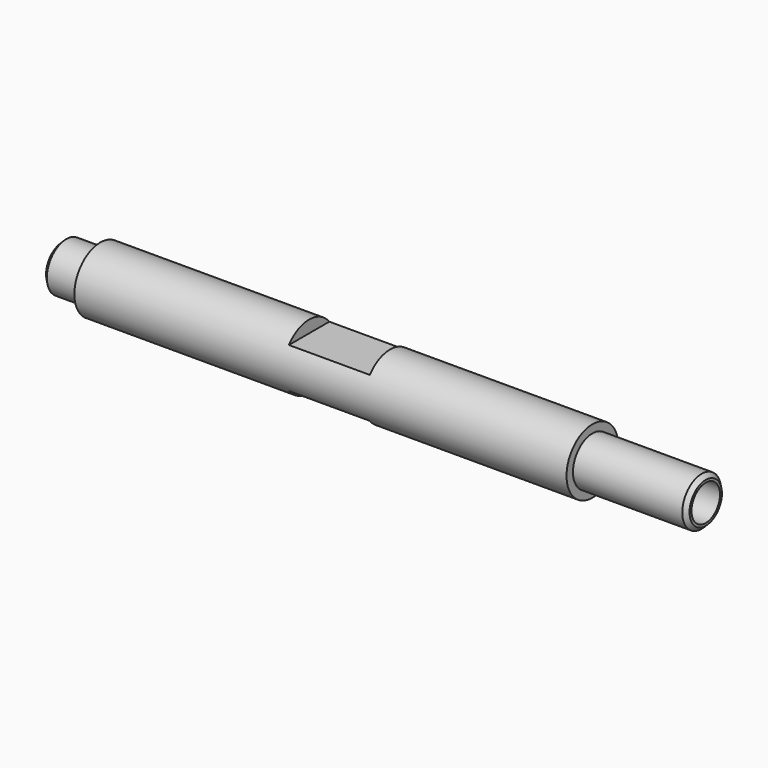
from build123d import *

# Parameters (mm, degrees)
F0_W     = 4.7
F0_H     = 3
F0_W_2   = 14
F2_W     = 10
F2_H     = 4.175300472
F3_DEPTH = 12.5
F5_D     = 4.4
F5_DEPTH = 14
F5_TIP   = 1.3218933619
F7_D     = 4.4
F7_DEPTH = 14
F7_TIP   = 1.3218933619
F8_SIZE  = 0.5


with BuildPart() as f1:
    # F0 (on Top) → F1 (revolve)
    with BuildSketch(Plane.XY):
        with Locations((-32.75, 1.5)):
            Rectangle(F0_W, F0_H)
        Polygon((30.4, 3), (30.4, 4), (-30.4, 4), (-30.4, 3), (-30.4, 0), (30.4, 0), align=None)
        with Locations((37.4, 1.5)):
            Rectangle(F0_W_2, F0_H)
    revolve(axis=Axis((3.1452495605, 0, 0), (1, 0, 0)))

    # F2 (on Front) → F3 (cut, symmetric)
    with BuildSketch(Plane.XZ):
        with Locations((0.4, 4.587650236)):
            Rectangle(F2_W, F2_H)
        with Locations((0.4, -4.587650236)):
            Rectangle(F2_W, F2_H)
    extrude(amount=F3_DEPTH, both=True, mode=Mode.SUBTRACT)

    # F5
    with Locations(Plane.YZ.offset(44.4)):
        with Locations((0, 0)):
            Hole(F5_D / 2, depth=F5_DEPTH)
            with Locations((0, 0, -(F5_DEPTH + F5_TIP / 2))):  # 118° drill point
                Cone(0, F5_D / 2, F5_TIP, mode=Mode.SUBTRACT)

    # F7
    with Locations(Plane(origin=(-35.1, 0, 0), x_dir=(0, -1, 0), z_dir=(-1, 0, 0))):
        with Locations((0, 0)):
            Hole(F7_D / 2, depth=F7_DEPTH)
            with Locations((0, 0, -(F7_DEPTH + F7_TIP / 2))):  # 118° drill point
                Cone(0, F7_D / 2, F7_TIP, mode=Mode.SUBTRACT)

    # F8
    f8_edges = [f1.edges().sort_by_distance(p)[0] for p in [
        (-35.1, -3, 0),
        (44.4, -3, 0),
    ]]
    chamfer(f8_edges, length=F8_SIZE)


solid = f1.part
